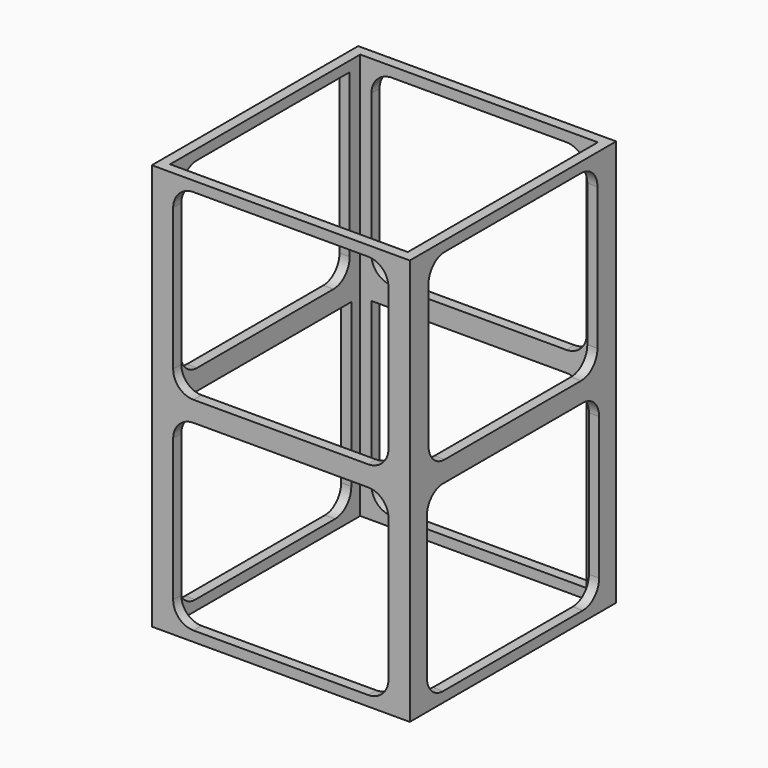
from build123d import *

# Parameters (mm, degrees)
F0_W     = 63.5
F0_H     = 63.5
F0_W_2   = 58.5
F0_H_2   = 58.5
F1_DEPTH = 100
F2_W     = 53
F2_H     = 45
F3_DEPTH = 63.501
F4_W     = 53
F4_H     = 45
F4_W_2   = 52
F5_DEPTH = 63.501
F6_R     = 5
F7_R     = 5


with BuildPart() as f1:
    # F0 (on Top) → F1 (new body)
    with BuildSketch(Plane.XY):
        Rectangle(F0_W, F0_H)
        Rectangle(F0_W_2, F0_H_2, mode=Mode.SUBTRACT)
    extrude(amount=F1_DEPTH)

    # F2 (on face) → F3 (cut, through all)
    with BuildSketch(Plane.XZ.offset(31.75)):
        with Locations((0, 75)):
            Rectangle(F2_W, F2_H)
        with Locations((0, 25)):
            Rectangle(F2_W, F2_H)
    extrude(amount=-F3_DEPTH, mode=Mode.SUBTRACT)

    # F4 (on face) → F5 (cut, through all)
    with BuildSketch(Plane(origin=(-31.75, 0, 0), x_dir=(0, -1, 0), z_dir=(-1, 0, 0))):
        with Locations((0, 25)):
            Rectangle(F4_W, F4_H)
        with Locations((0, 75)):
            Rectangle(F4_W_2, F4_H)
    extrude(amount=-F5_DEPTH, mode=Mode.SUBTRACT)

    # F6
    f6_edges = [f1.edges().sort_by_distance(p)[0] for p in [
        (30.5, -26.5, 2.5),
        (30.5, -26, 52.5),
        (-26.5, 30.5, 2.5),
        (-30.5, 26.5, 2.5),
        (-26.5, -30.5, 2.5),
        (-26.5, -30.5, 52.5),
        (-26.5, 30.5, 52.5),
        (-30.5, 26, 52.5),
        (30.5, 26, 52.5),
        (26.5, -30.5, 2.5),
        (26.5, -30.5, 52.5),
        (26.5, 30.5, 52.5),
        (-30.5, -26.5, 2.5),
        (-30.5, -26, 52.5),
    ]]
    fillet(f6_edges, radius=F6_R)

    # F7
    f7_edges = [f1.edges().sort_by_distance(p)[0] for p in [
        (30.5, 26, 97.5),
        (30.5, 26.5, 47.5),
        (-26.5, -30.5, 47.5),
        (-26.5, -30.5, 97.5),
        (30.5, 26.5, 2.5),
        (-26.5, 30.5, 97.5),
        (26.5, 30.5, 97.5),
        (30.5, -26, 97.5),
        (26.5, -30.5, 97.5),
        (30.5, -26.5, 47.5),
        (26.5, -30.5, 47.5),
        (26.5, 30.5, 47.5),
        (-30.5, -26, 97.5),
    ]]
    fillet(f7_edges, radius=F7_R)


solid = f1.part
